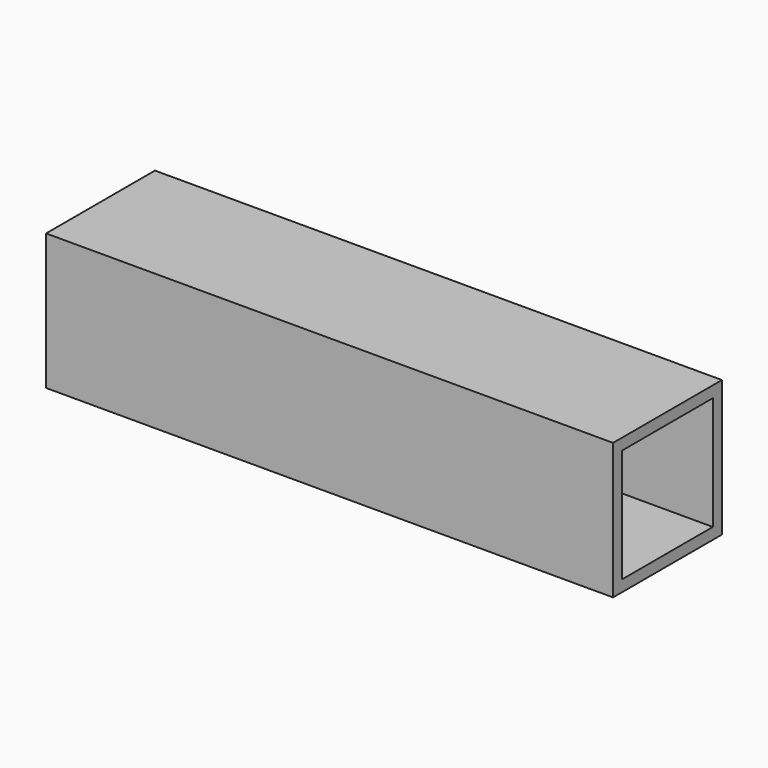
from build123d import *

# Parameters (mm, degrees)
F0_W     = 30.48
F0_H     = 30.48
F1_DEPTH = 127
F2_W     = 25.4
F2_H     = 25.4
F3_DEPTH = 127


with BuildPart() as f1:
    # F0 (on Right) → F1 (new body)
    with BuildSketch(Plane.YZ):
        with Locations((15.24, 15.24)):
            Rectangle(F0_W, F0_H)
    extrude(amount=-F1_DEPTH)

    # F2 (on face) → F3 (cut)
    with BuildSketch(Plane.YZ):
        with Locations((15.24, 15.24)):
            Rectangle(F2_W, F2_H)
    extrude(amount=-F3_DEPTH, mode=Mode.SUBTRACT)


solid = f1.part
